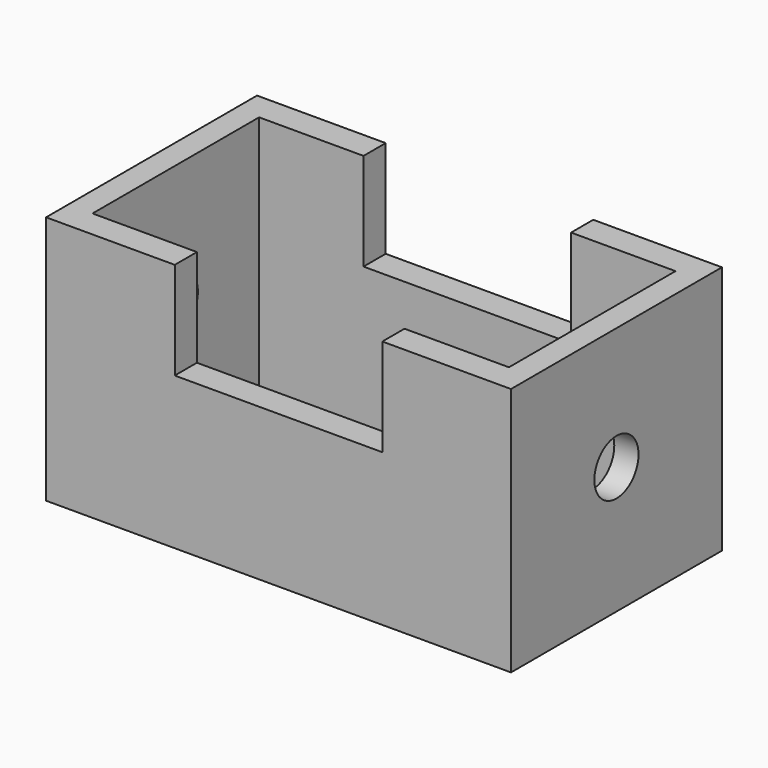
from build123d import *

# Parameters (mm, degrees)
F0_W     = 121.164226
F0_H     = 68.717256
F0_W_2   = 108.521216
F0_H_2   = 54.268106
F1_DEPTH = 65.024
F2_W     = 54.09474
F2_H     = 119.401276
F3_DEPTH = 25.4
F4_R     = 7.192708
F5_DEPTH = 121.165225


with BuildPart() as f1:
    # F0 (on Top) → F1 (new body)
    with BuildSketch(Plane.XY):
        Rectangle(F0_W, F0_H)
        Rectangle(F0_W_2, F0_H_2, mode=Mode.SUBTRACT)
    extrude(amount=F1_DEPTH)

    # F2 (on face) → F3 (cut)
    with BuildSketch(Plane.XY.offset(65.024)):
        Rectangle(F2_W, F2_H)
    extrude(amount=-F3_DEPTH, mode=Mode.SUBTRACT)

    # F4 (on face) → F5 (cut, through all)
    with BuildSketch(Plane.YZ.offset(60.582113)):
        with Locations((0, 33.128206)):
            Circle(F4_R)
    extrude(amount=-F5_DEPTH, mode=Mode.SUBTRACT)


solid = f1.part
